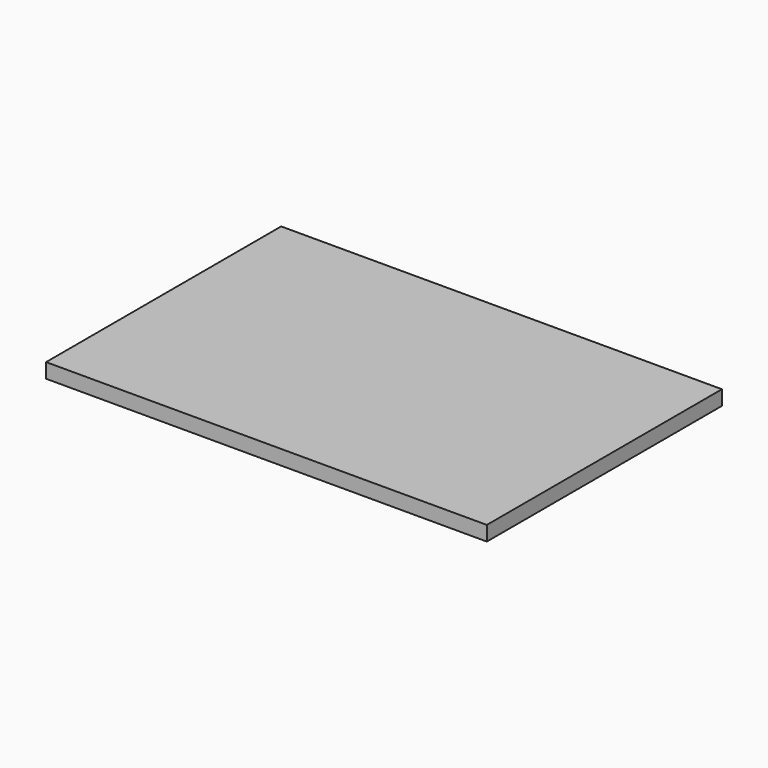
from build123d import *

# Parameters (mm, degrees)
SKETCH_W  = 30
SKETCH_H  = 20
PAD_DEPTH = 1


with BuildPart() as part:
    # Sketch → Pad (new body)
    with BuildSketch(Plane.XY):
        with Locations((15, 10)):
            Rectangle(SKETCH_W, SKETCH_H)
    extrude(amount=-PAD_DEPTH)


solid = part.part
